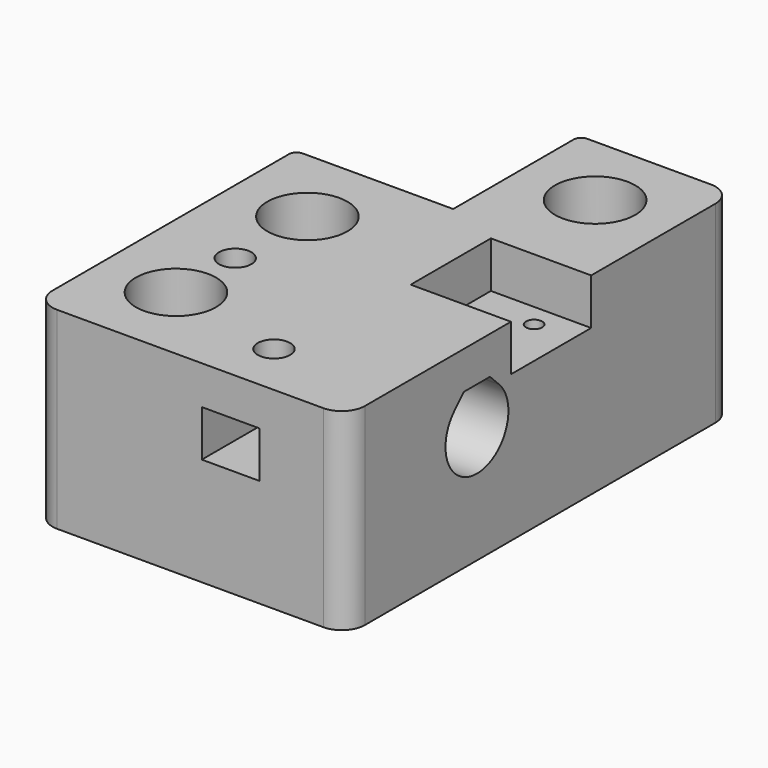
from build123d import *

# Parameters (mm, degrees)
EXTRUDE_DEPTH     = 20
BOX003_W          = 15
BOX003_H          = 7.5
BOX003_DEPTH      = 6
CYLINDER003_R     = 2.1
CYLINDER003_DEPTH = 5
CYLINDER002_R     = 1.05
CYLINDER002_DEPTH = 7
BOX002_W          = 13
BOX002_H          = 13
BOX002_DEPTH      = 6
CYLINDER001_R     = 2.65
CYLINDER001_DEPTH = 5
CYLINDER_R        = 5.2
CYLINDER_DEPTH    = 20
BOX001_W          = 20.5
BOX001_H          = 20.5
BOX001_DEPTH      = 25
BOX004_W          = 7.5
BOX004_H          = 13
BOX004_DEPTH      = 6
BOX_W             = 40.5
BOX_H             = 62.8
BOX_DEPTH         = 25
FILLET_1_R        = 3
FILLET_2_R        = 1


with BuildPart() as obj1:
    # Sketch → Extrude (new body)
    with BuildSketch(Plane.YZ):
        with BuildLine():
            ThreePointArc((-3.606243, 3.606246), (0, -5.1), (3.606243, 3.606246))
            Line((2.112489, 5.1), (3.606243, 3.606246))
            Line((-2.112489, 5.1), (2.112489, 5.1))
            Line((-3.606243, 3.606246), (-2.112489, 5.1))
        make_face()
    extrude(amount=EXTRUDE_DEPTH)


with BuildPart() as obj1_1:
    # Extrude placement: moved
    add(obj1.part.moved(Location((20.5, 41.65, 15))))


with BuildPart() as hueco_taladro4:
    # Box003 → Box003 (new body)
    with BuildSketch(Plane(origin=(0, 39, 14), x_dir=(1, 0, 0), z_dir=(0, 0, 1))):
        with Locations((7.5, 3.75)):
            Rectangle(BOX003_W, BOX003_H)
    extrude(amount=BOX003_DEPTH)


with BuildPart() as taladro4:
    # Cylinder003 → Cylinder003 (new body)
    with BuildSketch(Plane(origin=(10, 42.7, 20), x_dir=(1, 0, 0), z_dir=(0, 0, 1))):
        Circle(CYLINDER003_R)
    extrude(amount=CYLINDER003_DEPTH)


with BuildPart() as clone005:
    # Clone005 base: copy of taladro4
    add(taladro4.part)


with BuildPart() as clone005_1:
    # Clone005 placement: moved
    add(clone005.part.moved(Location((15.5, 13.1, 0))))


with BuildPart() as taladro_endstop:
    # Cylinder002 → Cylinder002 (new body)
    with BuildSketch(Plane(origin=(35.5, 26.14, 12), x_dir=(1, 0, 0), z_dir=(0, 0, 1))):
        Circle(CYLINDER002_R)
    extrude(amount=CYLINDER002_DEPTH)


with BuildPart() as clone004:
    # Clone004 base: copy of taladro_endstop
    add(taladro_endstop.part)


with BuildPart() as clone004_1:
    # Clone004 placement: moved
    add(clone004.part.moved(Location((0, 7, 0))))


with BuildPart() as hueco_endstop:
    # Box002 → Box002 (new body)
    with BuildSketch(Plane(origin=(27.5, 23.14, 19), x_dir=(1, 0, 0), z_dir=(0, 0, 1))):
        with Locations((6.5, 6.5)):
            Rectangle(BOX002_W, BOX002_H)
    extrude(amount=BOX002_DEPTH)


with BuildPart() as taladro5:
    # Cylinder001 → Cylinder001 (new body)
    with BuildSketch(Plane(origin=(30.5, 10, 0), x_dir=(1, 0, 0), z_dir=(0, 0, 1))):
        Circle(CYLINDER001_R)
    extrude(amount=CYLINDER001_DEPTH)


with BuildPart() as clone002:
    # Clone002 base: copy of taladro5
    add(taladro5.part)


with BuildPart() as clone002_1:
    # Clone002 placement: moved
    add(clone002.part.moved(Location((-20.5, 21, 0))))


with BuildPart() as clone003:
    # Clone003 base: copy of Clone002
    add(clone002_1.part)


with BuildPart() as clone003_1:
    # Clone003 placement: moved
    add(clone003.part.moved(Location((0, 21.3, 0))))


with BuildPart() as taladro10:
    # Cylinder → Cylinder (new body)
    with BuildSketch(Plane(origin=(30.5, 10, 5), x_dir=(1, 0, 0), z_dir=(0, 0, 1))):
        Circle(CYLINDER_R)
    extrude(amount=CYLINDER_DEPTH)


with BuildPart() as clone:
    # Clone base: copy of taladro10
    add(taladro10.part)


with BuildPart() as clone_1:
    # Clone placement: moved
    add(clone.part.moved(Location((-20.5, 21, 0))))


with BuildPart() as clone001:
    # Clone001 base: copy of Clone
    add(clone_1.part)


with BuildPart() as clone001_1:
    # Clone001 placement: moved
    add(clone001.part.moved(Location((0, 21.3, 0))))


with BuildPart() as obj2:
    # Box001 → Box001 (new body)
    with BuildSketch(Plane.XY):
        with Locations((10.25, 10.25)):
            Rectangle(BOX001_W, BOX001_H)
    extrude(amount=BOX001_DEPTH)


with BuildPart() as huecos:
    # Box004 → Box004 (new body)
    with BuildSketch(Plane(origin=(21.75, 49.8, 14), x_dir=(1, 0, 0), z_dir=(0, 0, 1))):
        with Locations((3.75, 6.5)):
            Rectangle(BOX004_W, BOX004_H)
    extrude(amount=BOX004_DEPTH)

    # Fusion: union hueco_taladro4, Clone005, taladro4, Clone004, taladro_endstop, hueco_endstop, Clone003, Clone002, taladro5, Clone001, Clone, taladro10, obj2
    add(hueco_taladro4.part)
    add(clone005_1.part)
    add(taladro4.part)
    add(clone004_1.part)
    add(taladro_endstop.part)
    add(hueco_endstop.part)
    add(clone003_1.part)
    add(clone002_1.part)
    add(taladro5.part)
    add(clone001_1.part)
    add(clone_1.part)
    add(taladro10.part)
    add(obj2.part)


with BuildPart() as obj3:
    # Box → Box (new body)
    with BuildSketch(Plane.XY):
        with Locations((20.25, 31.4)):
            Rectangle(BOX_W, BOX_H)
    extrude(amount=BOX_DEPTH)

    # Cut: cut huecos
    add(huecos.part, mode=Mode.SUBTRACT)

    # Cut001: cut obj1
    add(obj1_1.part, mode=Mode.SUBTRACT)

    # Fillet 1
    fillet_1_edges = [obj3.edges().sort_by_distance(p)[0] for p in [
        (0, 62.8, 12.5),
        (40.5, 62.8, 12.5),
        (40.5, 0, 12.5),
    ]]
    fillet(fillet_1_edges, radius=FILLET_1_R)

    # Fillet 2
    fillet_2_edges = [obj3.edges().sort_by_distance(p)[0] for p in [
        (0, 20.5, 12.5),
        (20.5, 0, 12.5),
    ]]
    fillet(fillet_2_edges, radius=FILLET_2_R)


with BuildPart() as obj4:
    # Part__Mirroring: instance of obj3
    add(obj3.part.mirror(Plane(origin=(0, 0, 0), x_dir=(1, 0, 0), z_dir=(0, 1, 0))))


solid = obj4.part
